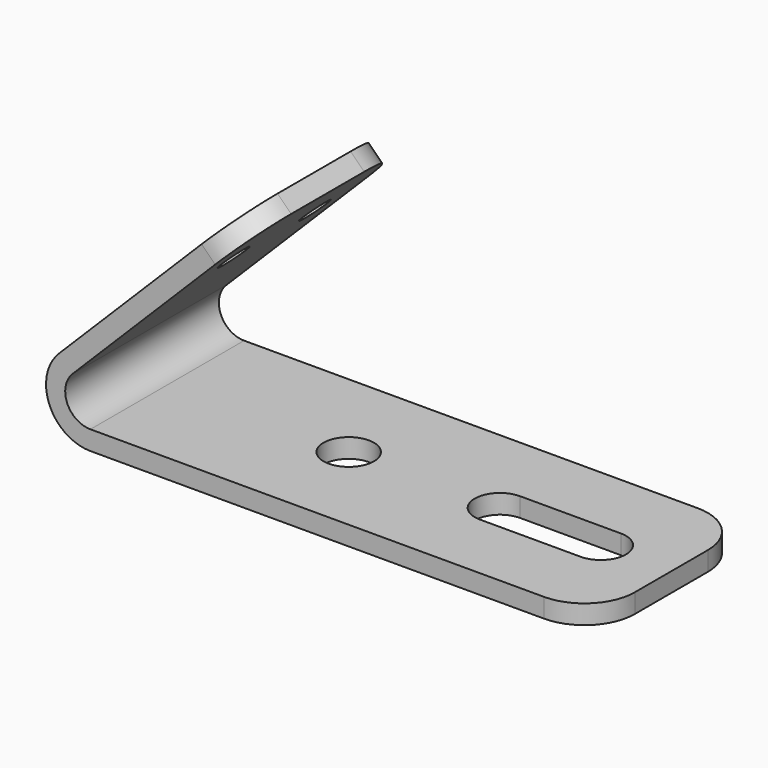
from build123d import *

# Parameters (mm, degrees)
F1_DEPTH = 483.87
F2_R     = 38.1
F3_DEPTH = 48.26
F4_R     = 127
F5_R     = 63.5
F6_DEPTH = 48.261
F7_R     = 127


with BuildPart() as f1:
    # F0 (on Front) → F1 (new body)
    with BuildSketch(Plane.XZ):
        with BuildLine():
            ThreePointArc((-79.026254, 190.786254), (-103.252777, 68.9913), (0, 0))
            Line((0, 0), (1270, 0))
            Line((1270, 0), (1270, 48.26))
            Line((1270, 48.26), (0, 48.26))
            ThreePointArc((0, 48.26), (-58.66635, 87.459602), (-44.901281, 156.661281))
            Line((-44.901281, 156.661281), (404.111525, 605.674087))
            Line((404.111525, 605.674087), (369.986552, 639.79906))
            Line((369.986552, 639.79906), (-79.026254, 190.786254))
        make_face()
    extrude(amount=F1_DEPTH)

    # F2 (on face) → F3 (cut, through all)
    with BuildSketch(Plane(origin=(-134.906254, 0, 134.906254), x_dir=(0, -1, 0), z_dir=(-0.707107, 0, 0.707107))):
        with Locations((114.3, 523.526254)):
            Circle(F2_R)
        with Locations((369.57, 523.526254)):
            Circle(F2_R)
    extrude(amount=-F3_DEPTH, mode=Mode.SUBTRACT)

    # F4
    f4_edges = [f1.edges().sort_by_distance(p)[0] for p in [
        (387.049039, 0, 622.736573),
        (387.049039, -483.87, 622.736573),
    ]]
    fillet(f4_edges, radius=F4_R)

    # F5 (on face) → F6 (cut, through all)
    with BuildSketch(Plane.XY.offset(48.26)):
        with Locations((457.2, -241.935)):
            Circle(F5_R)
        with BuildLine():
            Line((965.2, -305.435), (1092.2, -305.435))
            ThreePointArc((1092.2, -305.435), (1155.7, -241.935), (1092.2, -178.435))
            Line((1092.2, -178.435), (965.2, -178.435))
            Line((965.2, -178.435), (838.2, -178.435))
            ThreePointArc((838.2, -178.435), (774.7, -241.935), (838.2, -305.435))
            Line((838.2, -305.435), (965.2, -305.435))
        make_face()
    extrude(amount=-F6_DEPTH, mode=Mode.SUBTRACT)

    # F7
    f7_edges = [f1.edges().sort_by_distance(p)[0] for p in [
        (1270, -483.87, 24.13),
        (1270, 0, 24.13),
    ]]
    fillet(f7_edges, radius=F7_R)


solid = f1.part
